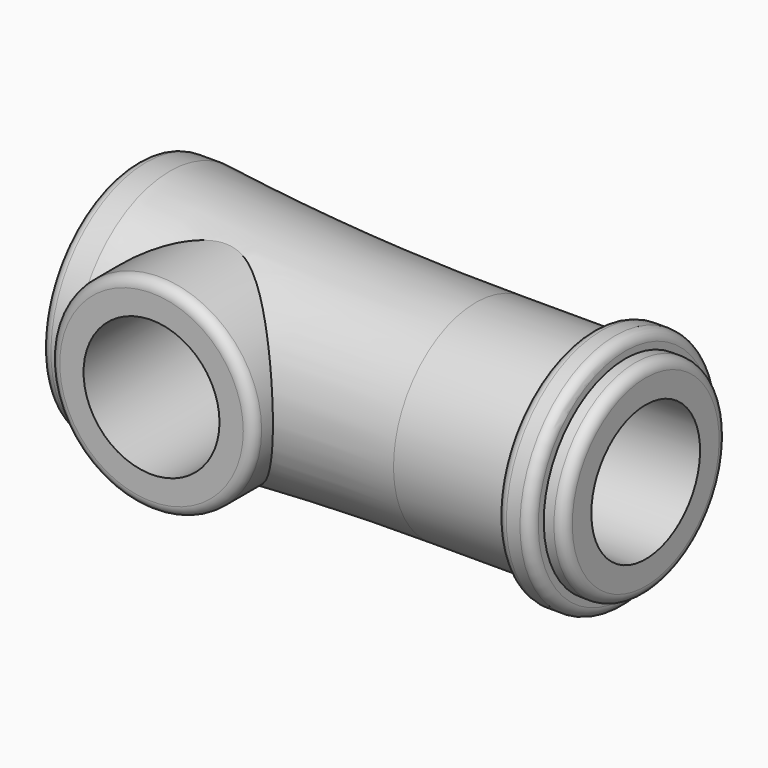
from build123d import *

# Parameters (mm, degrees)
F2_R     = 15
F3_DEPTH = 19
F4_R     = 10
F5_DEPTH = 25
F6_R     = 1.5


with BuildPart() as f1:
    # F0 (on Front) → F1 (revolve)
    with BuildSketch(Plane.XZ):
        with BuildLine():
            Line((0, 17.5), (0, 0))
            Line((0, 0), (60, 0))
            Line((60, 0), (60, 10))
            Line((60, 10), (75, 10))
            Line((75, 10), (75, 15))
            Line((75, 15), (72, 15))
            Line((72, 15), (72, 17.5))
            Line((72, 17.5), (67, 17.5))
            Line((67, 17.5), (67, 15.124123))
            Line((67, 15.124123), (50, 15.124123))
            ThreePointArc((50, 15.124123), (27.465898, 15.666159), (5, 17.5))
            Line((5, 17.5), (0, 17.5))
        make_face()
    revolve(axis=Axis((30, 0, 0), (1, 0, 0)))

    # F2 (on Front) → F3 (join)
    with BuildSketch(Plane.XZ):
        with Locations((17.5, 0)):
            Circle(F2_R)
    extrude(amount=F3_DEPTH)

    # F4 (on face) → F5 (cut)
    with BuildSketch(Plane.XZ.offset(19)):
        with Locations((17.5, 0)):
            Circle(F4_R)
    extrude(amount=-F5_DEPTH, mode=Mode.SUBTRACT)

    # F6
    f6_edges = [f1.edges().sort_by_distance(p)[0] for p in [
        (0, 0, -17.5),
        (2.5, -19, 0),
        (67, 0, -17.5),
        (72, 0, -17.5),
        (75, 0, -15),
    ]]
    fillet(f6_edges, radius=F6_R)


solid = f1.part
